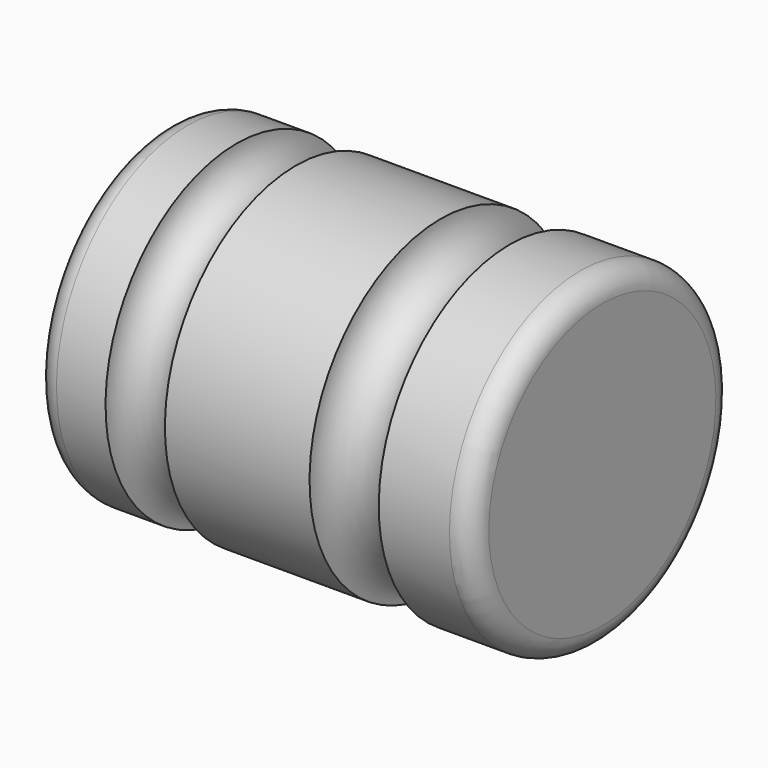
from build123d import *

# Parameters (mm, degrees)
F2_R = 5.08


with BuildPart() as f1:
    # F0 (on Front) → F1 (revolve)
    with BuildSketch(Plane.XZ):
        with BuildLine():
            Line((74.8796791941, -44.9867546558), (74.8796791941, -6.8867546558))
            Line((74.8796791941, -6.8867546558), (53.3434134441, -6.8867546558))
            ThreePointArc((53.3434134441, -6.8867546558), (45.2886782587, -14.9414898413), (37.2339430732, -6.8867546558))
            Line((37.2339430732, -6.8867546558), (3.5892582275, -6.8867546558))
            ThreePointArc((3.5892582275, -6.8867546558), (-3.3211708069, -13.7971836903), (-10.2315998413, -6.8867546558))
            Line((-10.2315998413, -6.8867546558), (-26.7203208059, -6.8867546558))
            Line((-26.7203208059, -6.8867546558), (-26.7203208059, -44.9867546558))
            Line((-26.7203208059, -44.9867546558), (74.8796791941, -44.9867546558))
        make_face()
    revolve(axis=Axis((24.0796791941, 0, -44.9867546558), (-1, 0, 0)))

    # F2
    f2_edges = [f1.edges().sort_by_distance(p)[0] for p in [
        (-26.720321, 0, -83.086755),
        (74.879679, 0, -83.086755),
    ]]
    fillet(f2_edges, radius=F2_R)


solid = f1.part
